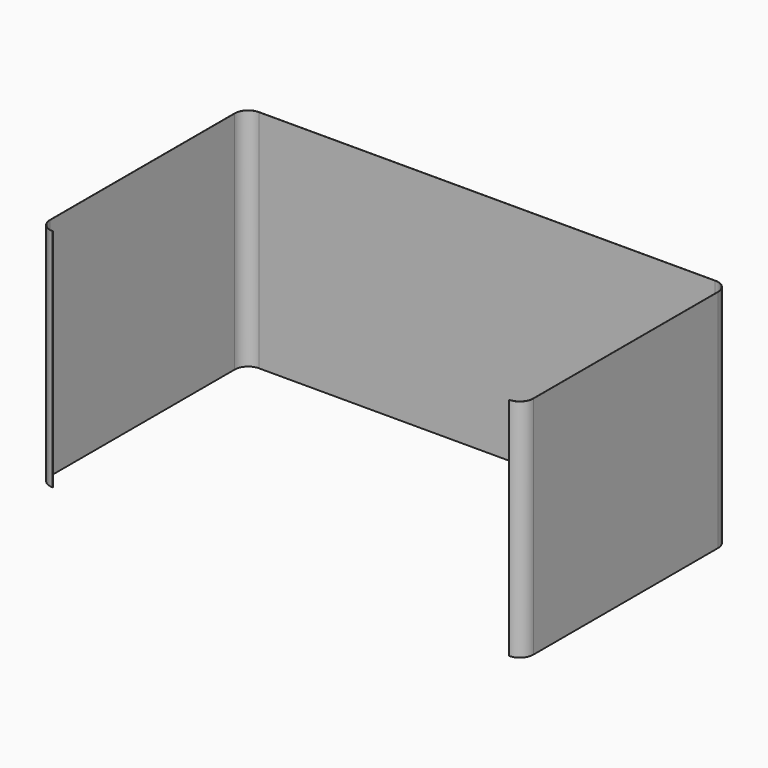
from build123d import *

# Parameters (mm, degrees)
F0_W     = 4574.54
F0_H     = 2440.94
F0_W_2   = 4572
F0_H_2   = 2438.4
F1_DEPTH = 2438.4
F2_W     = 4574.54
F2_H     = 304.8
F3_DEPTH = 2440.941
F4_R     = 127
F5_DEPTH = 25.4


with BuildPart() as f1:
    # F0 (on Top) → F1 (new body)
    with BuildSketch(Plane.XY):
        Rectangle(F0_W, F0_H)
        Rectangle(F0_W_2, F0_H_2, mode=Mode.SUBTRACT)
    extrude(amount=F1_DEPTH)

    # F2 (on face) → F3 (cut, through all)
    with BuildSketch(Plane(origin=(0, 1220.47, 0), x_dir=(-1, 0, 0), z_dir=(0, 1, 0))):
        with Locations((0, 2286)):
            Rectangle(F2_W, F2_H)
    extrude(amount=-F3_DEPTH, mode=Mode.SUBTRACT)

    # F4
    f4_edges = [f1.edges().sort_by_distance(p)[0] for p in [
        (-2287.27, 1220.47, 1066.8),
        (-2286, 1219.2, 1066.8),
        (-2287.27, -1220.47, 1066.8),
        (-2286, -1219.2, 1066.8),
        (2286, -1219.2, 1066.8),
        (2287.27, -1220.47, 1066.8),
        (2286, 1219.2, 1066.8),
        (2287.27, 1220.47, 1066.8),
    ]]
    fillet(f4_edges, radius=F4_R)

    # F5 (cut): a face of the model
    f5_faces = [f1.faces().sort_by_distance(p)[0] for p in [
        (0, -1219.2, 1066.8),
    ]]
    extrude(f5_faces, amount=-F5_DEPTH, mode=Mode.SUBTRACT)


solid = f1.part
